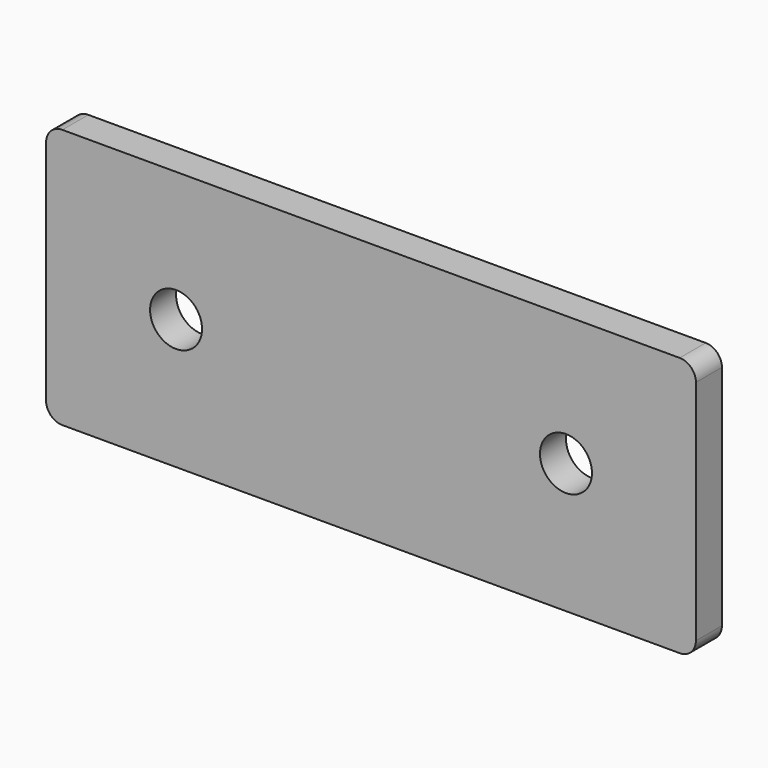
from build123d import *

# Parameters (mm, degrees)
F0_W     = 254
F0_H     = 101.6
F1_DEPTH = 12.7
F2_R     = 10.16
F3_DEPTH = 25.4
F4_R     = 6.35


with BuildPart() as f1:
    # F0 (on Front) → F1 (new body)
    with BuildSketch(Plane.XZ):
        with Locations((127, 50.8)):
            Rectangle(F0_W, F0_H)
    extrude(amount=F1_DEPTH)

    # F2 (on face) → F3 (cut)
    with BuildSketch(Plane.XZ.offset(12.7)):
        with Locations((50.8, 50.8)):
            Circle(F2_R)
        with Locations((203.2, 50.8)):
            Circle(F2_R)
    extrude(amount=-F3_DEPTH, mode=Mode.SUBTRACT)

    # F4
    f4_edges = [f1.edges().sort_by_distance(p)[0] for p in [
        (0, -6.35, 101.6),
        (254, -6.35, 101.6),
        (254, -6.35, 0),
        (0, -6.35, 0),
    ]]
    fillet(f4_edges, radius=F4_R)


solid = f1.part
